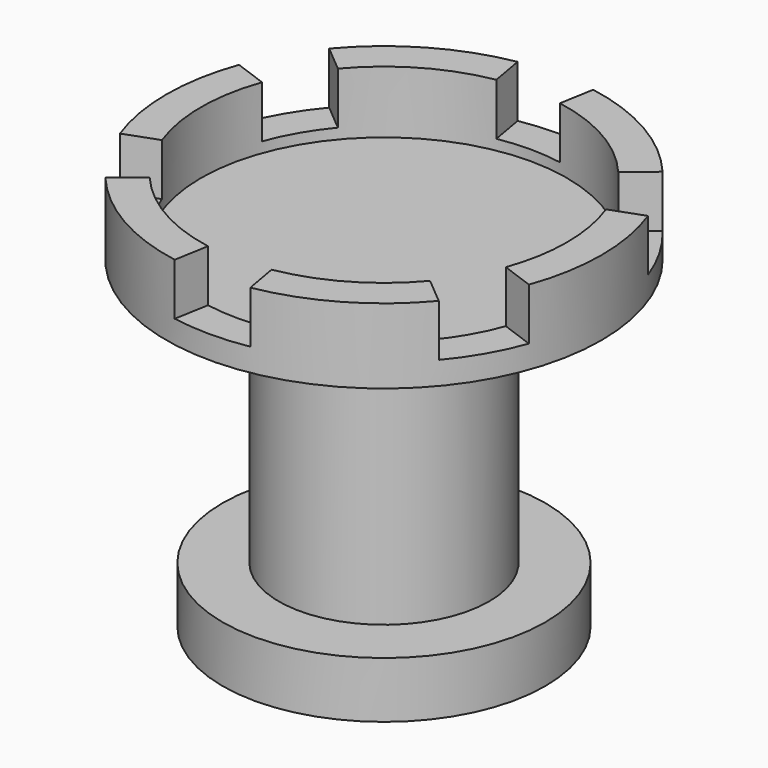
from build123d import *

# Parameters (mm, degrees)
F0_W     = 6.8689025939
F0_H     = 6.8689035252
F0_W_2   = 12.8473937511
F0_H_2   = 32.5636891648
F2_R     = 22.3587464381
F3_DEPTH = 7.62
F5_DEPTH = 6.35


with BuildPart() as f1:
    # F0 (on Front) → F1 (revolve)
    with BuildSketch(Plane.XZ):
        Polygon((0, 48.5911294818), (0, 39.43259269), (12.8473937511, 39.43259269), (26.5851970762, 39.43259269), (26.5851970762, 48.5911294818), align=None)
        with Locations((16.2818450481, 3.4344517626)):
            Rectangle(F0_W, F0_H)
        with Locations((6.4236968756, 23.1507481076)):
            Rectangle(F0_W_2, F0_H_2)
        with Locations((6.4236968756, 3.4344517626)):
            Rectangle(F0_W_2, F0_H)
    revolve(axis=Axis((0, 0, 19.716296345), (0, 0, 1)))

    # F2 (on face) → F3 (cut)
    with BuildSketch(Plane.XY.offset(48.5911294818)):
        Circle(F2_R)
    extrude(amount=-F3_DEPTH, mode=Mode.SUBTRACT)

    # F4 (on face) → F5 (cut)
    with BuildSketch(Plane.XY.offset(48.5911294818)):
        with BuildLine():
            ThreePointArc((-3.0514306297, 17.3055230542), (0, 17.5724886419), (3.0514306297, 17.3055230542))
            Line((3.0514306297, 17.3055230542), (5.4403788798, 30.8539218326))
            ThreePointArc((5.4403788798, 30.8539218326), (0, 31.3298933099), (-5.4403788798, 30.8539218326))
            Line((-5.4403788798, 30.8539218326), (-3.0514306297, 17.3055230542))
        make_face()
        with BuildLine():
            ThreePointArc((-16.5127379056, 6.0101450839), (-15.2182215716, 8.7862443209), (-13.4613072759, 11.2953779703))
            Line((-13.4613072759, 11.2953779703), (-24.0000906736, 20.1384672324))
            ThreePointArc((-24.0000906736, 20.1384672324), (-27.1324835042, 15.664946655), (-29.4404695533, 10.7154546002))
            Line((-29.4404695533, 10.7154546002), (-16.5127379056, 6.0101450839))
        make_face()
        with BuildLine():
            ThreePointArc((-13.4613072759, -11.2953779703), (-15.2182215716, -8.7862443209), (-16.5127379056, -6.0101450839))
            Line((-16.5127379056, -6.0101450839), (-29.4404695533, -10.7154546002))
            ThreePointArc((-29.4404695533, -10.7154546002), (-27.1324835042, -15.664946655), (-24.0000906736, -20.1384672324))
            Line((-24.0000906736, -20.1384672324), (-13.4613072759, -11.2953779703))
        make_face()
        with BuildLine():
            ThreePointArc((3.0514306297, -17.3055230542), (0, -17.5724886419), (-3.0514306297, -17.3055230542))
            Line((-3.0514306297, -17.3055230542), (-5.4403788798, -30.8539218326))
            ThreePointArc((-5.4403788798, -30.8539218326), (0, -31.3298933099), (5.4403788798, -30.8539218326))
            Line((5.4403788798, -30.8539218326), (3.0514306297, -17.3055230542))
        make_face()
        with BuildLine():
            ThreePointArc((16.5127379056, -6.0101450839), (15.2182215716, -8.7862443209), (13.4613072759, -11.2953779703))
            Line((13.4613072759, -11.2953779703), (24.0000906736, -20.1384672324))
            ThreePointArc((24.0000906736, -20.1384672324), (27.1324835042, -15.664946655), (29.4404695533, -10.7154546002))
            Line((29.4404695533, -10.7154546002), (16.5127379056, -6.0101450839))
        make_face()
        with BuildLine():
            ThreePointArc((13.4613072759, 11.2953779703), (15.2182215716, 8.7862443209), (16.5127379056, 6.0101450839))
            Line((16.5127379056, 6.0101450839), (29.4404695533, 10.7154546002))
            ThreePointArc((29.4404695533, 10.7154546002), (27.1324835042, 15.664946655), (24.0000906736, 20.1384672324))
            Line((24.0000906736, 20.1384672324), (13.4613072759, 11.2953779703))
        make_face()
    extrude(amount=-F5_DEPTH, mode=Mode.SUBTRACT)


solid = f1.part
